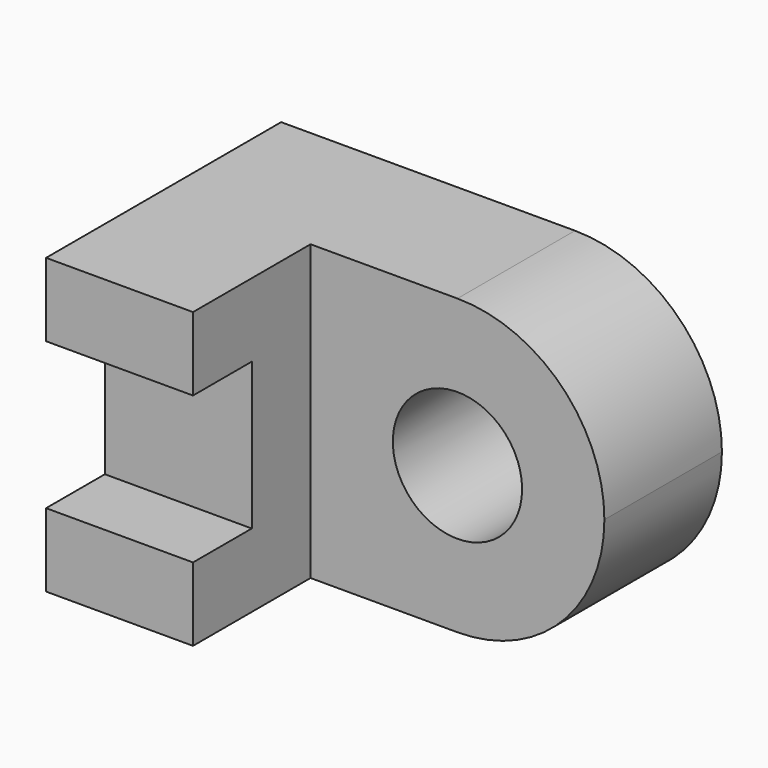
from build123d import *

# Parameters (mm, degrees)
F0_W     = 38.1
F0_H     = 25.4
F1_DEPTH = 25.4
F2_W     = 25.4
F2_H     = 12.7
F3_DEPTH = 25.4
F4_W     = 6.35
F4_H     = 12.7
F5_DEPTH = 25.4
F6_R     = 5.588
F7_DEPTH = 25.4
F9_DEPTH = 25.4


with BuildPart() as f1:
    # F0 (on Front) → F1 (new body)
    with BuildSketch(Plane.XZ):
        with Locations((19.05, 12.7)):
            Rectangle(F0_W, F0_H)
    extrude(amount=F1_DEPTH)

    # F2 (on face) → F3 (cut)
    with BuildSketch(Plane.XY.offset(25.4)):
        with Locations((25.4, -19.05)):
            Rectangle(F2_W, F2_H)
    extrude(amount=-F3_DEPTH, mode=Mode.SUBTRACT)

    # F4 (on face) → F5 (cut)
    with BuildSketch(Plane.YZ.offset(12.7)):
        with Locations((-22.225, 12.7)):
            Rectangle(F4_W, F4_H)
    extrude(amount=-F5_DEPTH, mode=Mode.SUBTRACT)

    # F6 (on face) → F7 (cut)
    with BuildSketch(Plane.XZ.offset(12.7)):
        with Locations((25.4, 12.7)):
            Circle(F6_R)
    extrude(amount=-F7_DEPTH, mode=Mode.SUBTRACT)

    # F8 (on face) → F9 (cut)
    with BuildSketch(Plane.XZ.offset(12.7)):
        with BuildLine():
            ThreePointArc((25.4, 25.4), (34.3802561211, 21.6802561211), (38.1, 12.7))
            Line((38.1, 12.7), (38.1, 25.4))
            Line((38.1, 25.4), (25.4, 25.4))
        make_face()
        with BuildLine():
            ThreePointArc((38.1, 12.7), (34.3802561211, 3.7197438789), (25.4, 0))
            Line((25.4, 0), (38.1, 0))
            Line((38.1, 0), (38.1, 12.7))
        make_face()
    extrude(amount=-F9_DEPTH, mode=Mode.SUBTRACT)


solid = f1.part
